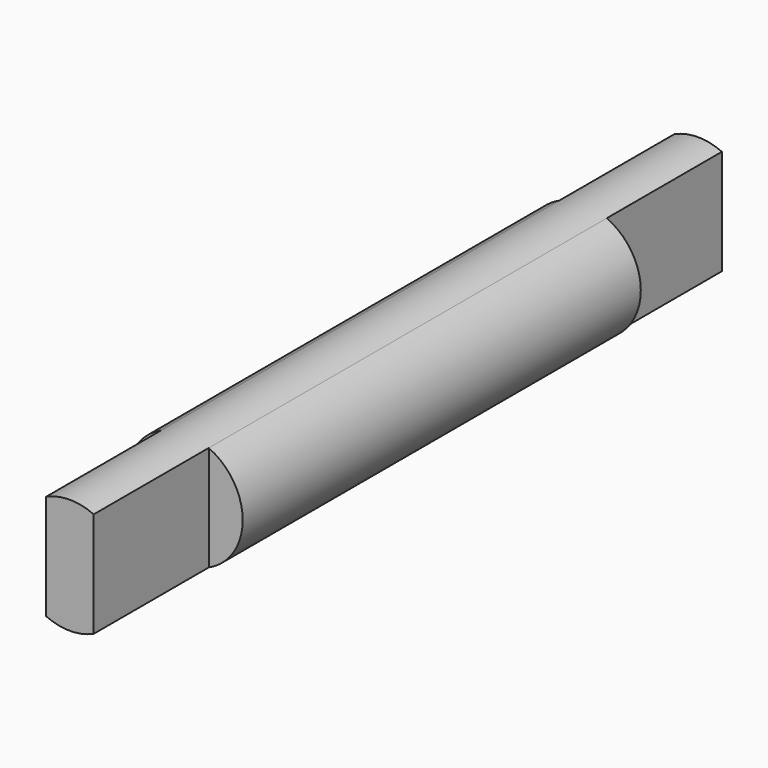
from build123d import *

# Parameters (mm, degrees)
F1_DEPTH = 18.7
F2_DEPTH = 11.85


with BuildPart() as f1:
    # F0 (on Front) → F1 (new body, symmetric)
    with BuildSketch(Plane.XZ):
        with BuildLine():
            Line((1.1339226358, -2.5053381919), (1.1339226358, 2.5053381919))
            ThreePointArc((1.1339226358, 2.5053381919), (0, 2.75), (-1.1339226358, 2.5053381919))
            Line((-1.1339226358, 2.5053381919), (-1.1339226358, -2.5053381919))
            ThreePointArc((-1.1339226358, -2.5053381919), (0, -2.75), (1.1339226358, -2.5053381919))
        make_face()
    extrude(amount=F1_DEPTH, both=True)

    # F0 (on Front) → F2 (join, symmetric)
    with BuildSketch(Plane.XZ):
        with BuildLine():
            Line((-1.1339226358, -2.5053381919), (-1.1339226358, 2.5053381919))
            ThreePointArc((-1.1339226358, 2.5053381919), (-2.75, 0), (-1.1339226358, -2.5053381919))
        make_face()
        with BuildLine():
            ThreePointArc((1.1339226358, -2.5053381919), (2.310929169, -1.4906731284), (2.75, 0))
            ThreePointArc((2.75, 0), (2.310929169, 1.4906731284), (1.1339226358, 2.5053381919))
            Line((1.1339226358, 2.5053381919), (1.1339226358, -2.5053381919))
        make_face()
    extrude(amount=F2_DEPTH, both=True)


solid = f1.part
